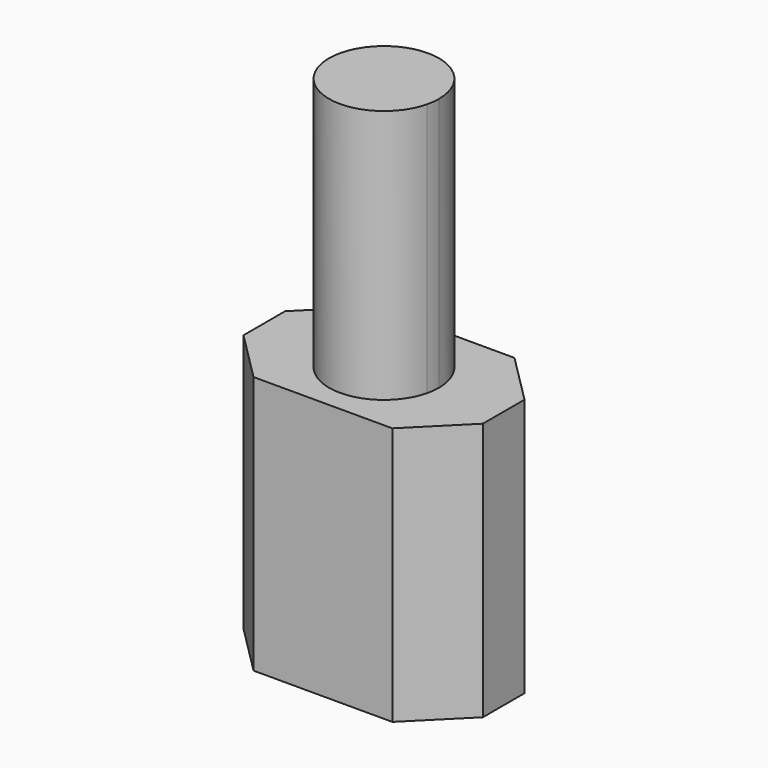
from build123d import *

# Parameters (mm, degrees)
F1_DEPTH = 14.9
F3_DEPTH = 14.66


with BuildPart() as f1:
    # F0 (on Top) → F1 (new body)
    with BuildSketch(Plane.XY):
        Polygon((-4, -4.4), (0, -4.4), (4, -4.4), (6.9, -1.5), (6.9, 1.5), (4, 4.4), (-4, 4.4), (-6.9, 1.5), (-6.9, -1.5), align=None)
    extrude(amount=F1_DEPTH)

    # F2 (on face) → F3 (join)
    with BuildSketch(Plane.XY.offset(14.9)):
        with BuildLine():
            ThreePointArc((3.08, -0.75), (3.14742, -0.37769), (3.17, 0))
            ThreePointArc((3.17, 0), (-0.37769, 3.14742), (-3.08, -0.75))
            Line((-3.08, -0.75), (0, -0.75))
            Line((0, -0.75), (3.08, -0.75))
        make_face()
        with BuildLine():
            Line((0, -0.75), (-3.08, -0.75))
            ThreePointArc((-3.08, -0.75), (0, -3.17), (3.08, -0.75))
            Line((3.08, -0.75), (0, -0.75))
        make_face()
    extrude(amount=F3_DEPTH)


solid = f1.part
